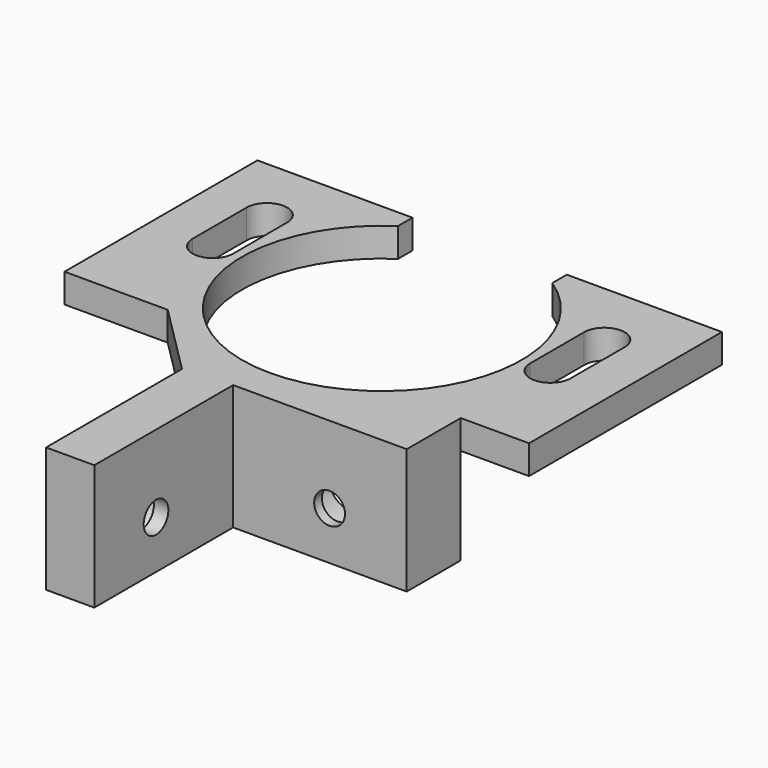
from build123d import *

# Parameters (mm, degrees)
PAD035_DEPTH    = 3
PAD036_DEPTH    = 10
SKETCH093_R     = 1.6
POCKET056_DEPTH = 5
SKETCH094_R     = 3.5
POCKET057_DEPTH = 3.5
SKETCH095_R     = 1.6
POCKET058_DEPTH = 10
SKETCH096_R     = 3.5
POCKET059_DEPTH = 6


with BuildPart() as part:
    # Sketch091 → Pad035 (new body)
    with BuildSketch(Plane.XY):
        with BuildLine():
            Line((-53, -7), (-35, -7))
            Line((-35, -7), (-35, 0))
            Line((-35, 0), (-27.91459, 0))
            Line((-27.91459, 0), (-27.91459, 25))
            Line((-27.91459, 25), (-44, 25))
            Line((-44, 23.115973), (-44, 25))
            ThreePointArc((-60, 23.115973), (-52, -3.477413), (-44, 23.115973))
            Line((-60, 23.115973), (-60, 25))
            Line((-60, 25), (-76.08541, 25))
            Line((-76.08541, 25), (-76.08541, 0))
            Line((-76.08541, 0), (-65.384759, 0))
            Line((-65.384759, 0), (-58, -7.384759))
            Line((-58, -7.384759), (-58, -25))
            Line((-58, -25), (-53, -25))
            Line((-53, -25), (-53, -7))
        make_face()
        with BuildLine():
            ThreePointArc((-71.6, 11), (-69.5, 8.9), (-67.4, 11))
            Line((-67.4, 11), (-67.4, 18))
            ThreePointArc((-67.4, 18), (-69.5, 20.1), (-71.6, 18))
            Line((-71.6, 11), (-71.6, 18))
        make_face(mode=Mode.SUBTRACT)
        with BuildLine():
            ThreePointArc((-36.6, 11), (-34.5, 8.9), (-32.4, 11))
            Line((-32.4, 11), (-32.4, 18))
            ThreePointArc((-32.4, 18), (-34.5, 20.1), (-36.6, 18))
            Line((-36.6, 11), (-36.6, 18))
        make_face(mode=Mode.SUBTRACT)
    extrude(amount=PAD035_DEPTH)

    # Sketch092 (on Face24 of Pad035) → Pad036 (join)
    with BuildSketch(Plane(origin=(0, 0, 0), x_dir=(1, 0, 0), z_dir=(0, 0, -1))):
        with BuildLine():
            Line((-53, 25), (-58, 25))
            Line((-58, 25), (-58, 7.384759))
            Line((-58, 7.384759), (-58, 2.564759))
            ThreePointArc((-41.98, 0), (-49.619239, 3.598228), (-58, 2.564759))
            Line((-41.98, 0), (-35, 0))
            Line((-35, 0), (-35, 7))
            Line((-35, 7), (-53, 7))
            Line((-53, 7), (-53, 25))
        make_face()
    extrude(amount=PAD036_DEPTH)

    # Sketch093 (on Face31 of Pad036) → Pocket056 (cut)
    with BuildSketch(Plane(origin=(-58, 0, 0), x_dir=(0, -1, 0), z_dir=(-1, 0, 0))):
        with Locations((17, -5)):
            Circle(SKETCH093_R)
    extrude(amount=-POCKET056_DEPTH, mode=Mode.SUBTRACT)

    # Sketch094 (on Face31 of Pocket056) → Pocket057 (cut)
    with BuildSketch(Plane(origin=(-58, 0, 0), x_dir=(0, -1, 0), z_dir=(-1, 0, 0))):
        with Locations((17, -5)):
            Circle(SKETCH094_R)
    extrude(amount=-POCKET057_DEPTH, mode=Mode.SUBTRACT)

    # Sketch095 (on Face11 of Pocket057) → Pocket058 (cut)
    with BuildSketch(Plane(origin=(0, 0, 0), x_dir=(-1, 0, 0), z_dir=(0, 1, 0))):
        with Locations((43, -5)):
            Circle(SKETCH095_R)
    extrude(amount=-POCKET058_DEPTH, mode=Mode.SUBTRACT)

    # Sketch096 (on Face11 of Pocket058) → Pocket059 (cut)
    with BuildSketch(Plane(origin=(0, 0, 0), x_dir=(-1, 0, 0), z_dir=(0, 1, 0))):
        with Locations((43, -5)):
            Circle(SKETCH096_R)
    extrude(amount=-POCKET059_DEPTH, mode=Mode.SUBTRACT)


with BuildPart() as part_1:
    # Body013 placement: moved
    add(part.part.moved(Location((0, 60, 110))))


solid = part_1.part
